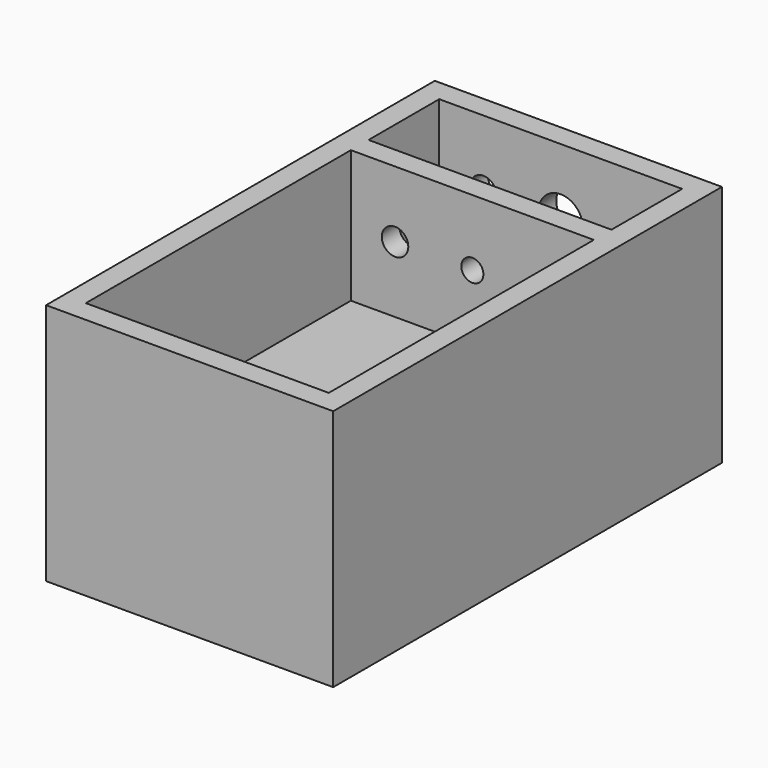
from build123d import *

# Parameters (mm, degrees)
F0_W      = 10
F0_H      = 60
F1_DEPTH  = 55
F2_W      = 220
F2_H      = 110
F3_DEPTH  = 10
F5_R      = 10
F6_DEPTH  = 10
F7_R      = 5
F8_DEPTH  = 10
F9_R      = 5
F9_R_2    = 6
F10_DEPTH = 3
F11_R     = 6
F12_DEPTH = 60.001


with BuildPart() as f1:
    # F0 (on Right) → F1 (new body, symmetric)
    with BuildSketch(Plane.YZ):
        Polygon((100, 10), (100, 0), (100, -40), (110, -40), (110, 70), (100, 70), align=None)
        Polygon((50, 10), (-100, 10), (-100, 0), (100, 0), (100, 10), (60, 10), align=None)
        with Locations((55, 40)):
            Rectangle(F0_W, F0_H)
        Polygon((-100, 70), (-110, 70), (-110, -40), (-100, -40), (-100, 0), (-100, 10), align=None)
    extrude(amount=F1_DEPTH, both=True)

    # F2 (on face) → F3 (join)
    with BuildSketch(Plane.YZ.offset(55)):
        with Locations((0, 15)):
            Rectangle(F2_W, F2_H)
    extrude(amount=F3_DEPTH)

    # F4: F1 across plane


with BuildPart() as f1_1:
    add(f1.part)
    add(f1.part.mirror(Plane.YZ))

    # F5 (on face) → F6 (cut, through all)
    with BuildSketch(Plane(origin=(0, 110, 0), x_dir=(-1, 0, 0), z_dir=(0, 1, 0))):
        with Locations((0, 40)):
            Circle(F5_R)
    extrude(amount=-F6_DEPTH, mode=Mode.SUBTRACT)

    # F7 (on face) → F8 (cut, through all)
    with BuildSketch(Plane.XZ.offset(-50)):
        with Locations((0, 40)):
            Circle(F7_R)
    extrude(amount=-F8_DEPTH, mode=Mode.SUBTRACT)

    # F9 (on face) → F10 (cut)
    with BuildSketch(Plane(origin=(0, -100, 0), x_dir=(-1, 0, 0), z_dir=(0, 1, 0))):
        with Locations((0, 40)):
            Circle(F9_R)
        with Locations((35, 40)):
            Circle(F9_R_2)
        with Locations((-35, 40)):
            Circle(F9_R_2)
    extrude(amount=-F10_DEPTH, mode=Mode.SUBTRACT)

    # F11 (on face) → F12 (cut, through all)
    with BuildSketch(Plane.XZ.offset(-50)):
        with Locations((-35, 40)):
            Circle(F11_R)
        with Locations((35, 40)):
            Circle(F11_R)
    extrude(amount=-F12_DEPTH, mode=Mode.SUBTRACT)


solid = f1_1.part
